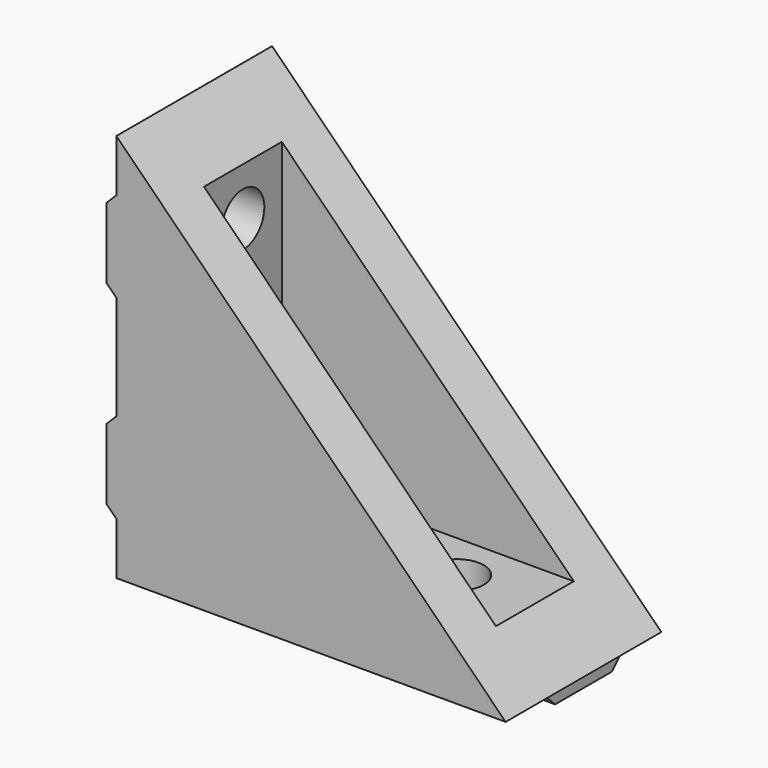
from build123d import *

# Parameters (mm, degrees)
F0_W         = 40
F0_H         = 20
F1_DEPTH     = 5
F3_DEPTH     = 35
F5_DEPTH     = 40
F7_DEPTH     = 20.001
F9_DEPTH     = 20
F12_D        = 5.5
F12_ON_F11_D = 5.5


with BuildPart() as f1:
    # F0 (on Top) → F1 (new body)
    with BuildSketch(Plane.XY):
        with Locations((20, -10)):
            Rectangle(F0_W, F0_H)
    extrude(amount=F1_DEPTH)

    # F2 (on face) → F3 (join)
    with BuildSketch(Plane.XY.offset(5)):
        Polygon((0, -20), (40, -20), (40, -15), (5, -15), (5, -5), (40, -5), (40, 0), (0, 0), align=None)
    extrude(amount=F3_DEPTH)

    # F4 (on face) → F5 (join, through all)
    with BuildSketch(Plane.YZ.offset(40)):
        Polygon((-5.36, 0), (-14.64, 0), (-13.64, -1), (-6.36, -1), align=None)
    extrude(amount=-F5_DEPTH)

    # F6 (on face) → F7 (cut, through all)
    with BuildSketch(Plane.XZ.offset(20)):
        Polygon((40, 40), (0, 40), (40, 0), align=None)
    extrude(amount=-F7_DEPTH, mode=Mode.SUBTRACT)

    # F8 (on face) → F9 (join, through all)
    with BuildSketch(Plane.XZ.offset(20)):
        Polygon((0, 25.36), (0, 34.64), (-1, 33.64), (-1, 26.36), align=None)
        Polygon((0, 5.36), (0, 14.64), (-1, 13.64), (-1, 6.36), align=None)
    extrude(amount=-F9_DEPTH)

    # F12 (through all)
    with Locations(Plane.YZ.offset(5)):
        with Locations((-10, 30), (-10, 10)):
            Hole(F12_D / 2)

    # F12 on F11 (through all)
    with Locations(Plane.XY.offset(5)):
        with Locations((27, -10)):
            Hole(F12_ON_F11_D / 2)


solid = f1.part
